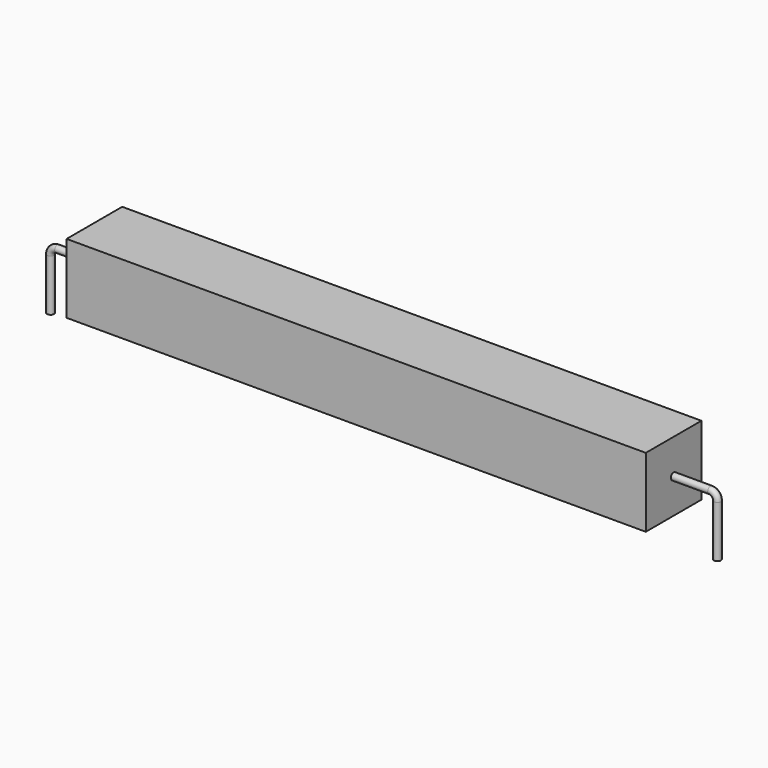
from build123d import *

# Parameters (mm, degrees)
SKETCH_R    = 0.45
SKETCH002_W = 75
SKETCH002_H = 9
PAD_DEPTH   = 4.5


with BuildPart() as sweep_body:
    # Sweep: sweep along a path in Sketch001
    with BuildLine(Plane.XZ) as sweep_path:
        Line((0, -3), (0, 3.7))
        ThreePointArc((0, 3.7), (0.263601, 4.336393), (0.899993, 4.6))
        Line((0.899993, 4.6), (85.46, 4.6))
        ThreePointArc((85.46, 4.6), (86.096396, 4.336396), (86.36, 3.7))
        Line((86.36, 3.7), (86.36, -3))
    # Sketch → Sweep (sweep)
    with BuildSketch(Plane.XY.offset(-2)):
        Circle(SKETCH_R)
    sweep(path=sweep_path.line)


with BuildPart() as pad:
    # Sketch002 → Pad (new body, symmetric)
    with BuildSketch(Plane.XZ):
        with Locations((43.18, 4.6)):
            Rectangle(SKETCH002_W, SKETCH002_H)
    extrude(amount=PAD_DEPTH, both=True)


solid = Compound([sweep_body.part, pad.part])
